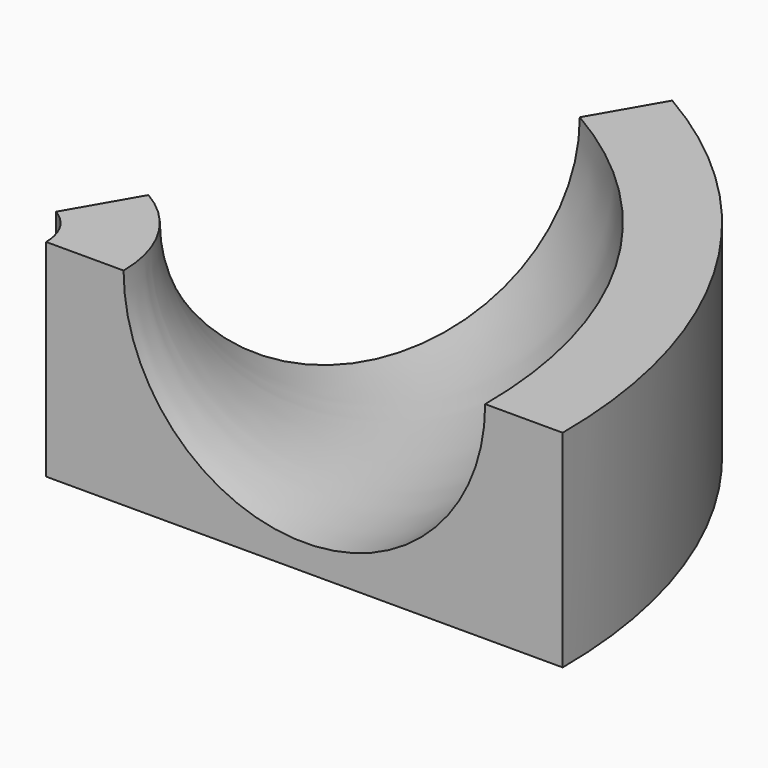
from build123d import *

# Parameters (mm, degrees)
F1_ANGLE = -60


with BuildPart() as f1:
    # F0 (on Front) → F1 (revolve)
    with BuildSketch(Plane.XZ):
        with BuildLine():
            Line((-50, 20.325956), (-50, -19.674044))
            Line((-50, -19.674044), (0, -19.674044))
            Line((0, -19.674044), (50, -19.674044))
            Line((50, -19.674044), (50, 20.325956))
            Line((50, 20.325956), (35, 20.325956))
            ThreePointArc((35, 20.325956), (0, -14.674044), (-35, 20.325956))
            Line((-35, 20.325956), (-50, 20.325956))
        make_face()
    revolve(axis=Axis((-60, 0, 1.129986), (0, 0, -1)), revolution_arc=F1_ANGLE)


solid = f1.part
